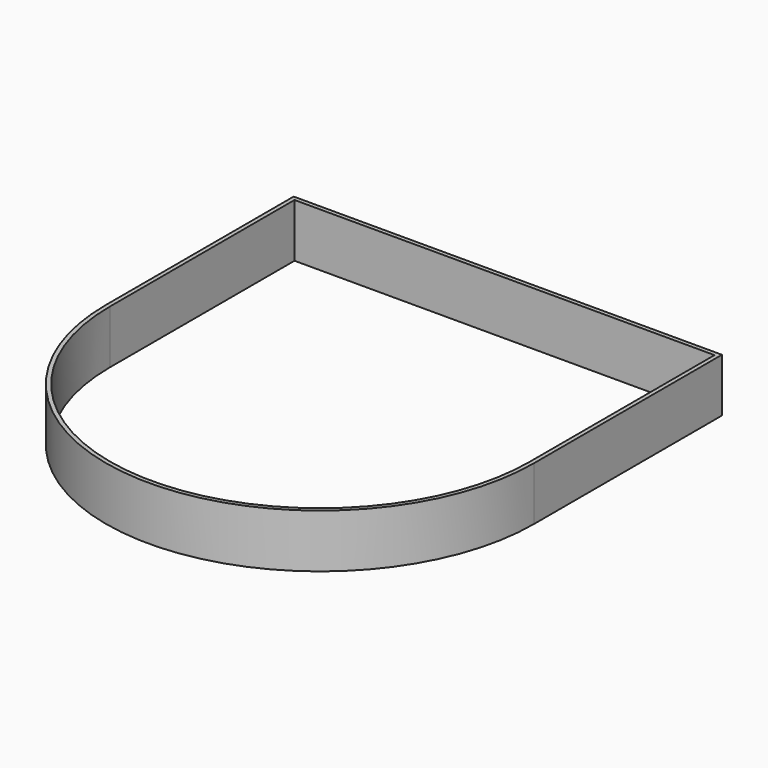
from build123d import *

# Parameters (mm, degrees)
F1_DEPTH = 82.55


with BuildPart() as f1:
    # F0 (on Top) → F1 (new body)
    with BuildSketch(Plane.XY):
        with BuildLine():
            ThreePointArc((-330.2, 0), (0, -330.2), (330.2, 0))
            Line((330.2, 0), (330.2, 361.95))
            Line((330.2, 361.95), (-330.2, 361.95))
            Line((-330.2, 361.95), (-330.2, 0))
        make_face()
        with BuildLine():
            ThreePointArc((323.85, 0), (0, -323.85), (-323.85, 0))
            Line((-323.85, 0), (-323.85, 355.6))
            Line((-323.85, 355.6), (323.85, 355.6))
            Line((323.85, 355.6), (323.85, 0))
        make_face(mode=Mode.SUBTRACT)
    extrude(amount=F1_DEPTH)


solid = f1.part
